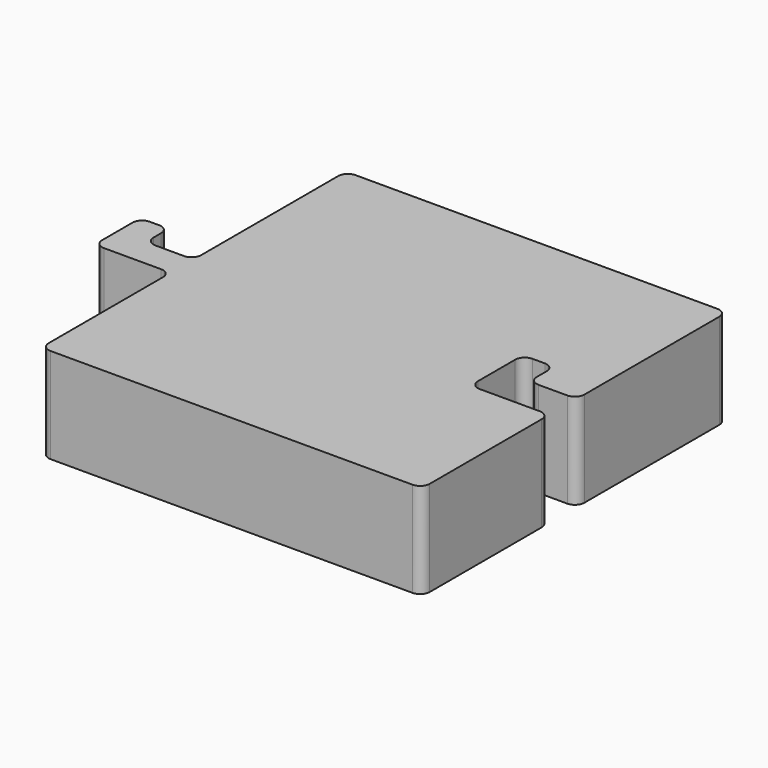
from build123d import *

# Parameters (mm, degrees)
F0_W     = 20
F0_H     = 20
F1_DEPTH = 5
F2_W     = 1.5
F2_H     = 1.5
F3_DEPTH = 5
F4_W     = 1.65
F4_H     = 1.65
F5_DEPTH = 5
F6_R     = 0.5


with BuildPart() as f1:
    # F0 (on Top) → F1 (new body)
    with BuildSketch(Plane.XY):
        Rectangle(F0_W, F0_H)
    extrude(amount=F1_DEPTH)

    # F2 (on Top) → F3 (join)
    with BuildSketch(Plane.XY):
        Polygon((-10, -1.5), (-10, 0), (-12.5, 0), (-14, 0), (-14, -1.5), align=None)
        with Locations((-13.25, 0.75)):
            Rectangle(F2_W, F2_H)
    extrude(amount=F3_DEPTH)

    # F4 (on Top) → F5 (cut)
    with BuildSketch(Plane.XY):
        Polygon((10, -1.65), (10, 0.15), (7.5, 0.15), (5.85, 0.15), (5.85, -1.65), align=None)
        with Locations((6.675, 0.975)):
            Rectangle(F4_W, F4_H)
    extrude(amount=F5_DEPTH, mode=Mode.SUBTRACT)

    # F6
    f6_edges = [f1.edges().sort_by_distance(p)[0] for p in [
        (-14, -1.5, 2.5),
        (-14, 1.5, 2.5),
        (-12.5, 1.5, 2.5),
        (-10, 0, 2.5),
        (-12.5, 0, 2.5),
        (-10, -1.5, 2.5),
        (5.85, 1.8, 2.5),
        (7.5, 1.8, 2.5),
        (7.5, 0.15, 2.5),
        (10, 0.15, 2.5),
        (10, -1.65, 2.5),
        (5.85, -1.65, 2.5),
        (10, -10, 2.5),
        (10, 10, 2.5),
        (-10, 10, 2.5),
        (-10, -10, 2.5),
    ]]
    fillet(f6_edges, radius=F6_R)


solid = f1.part
